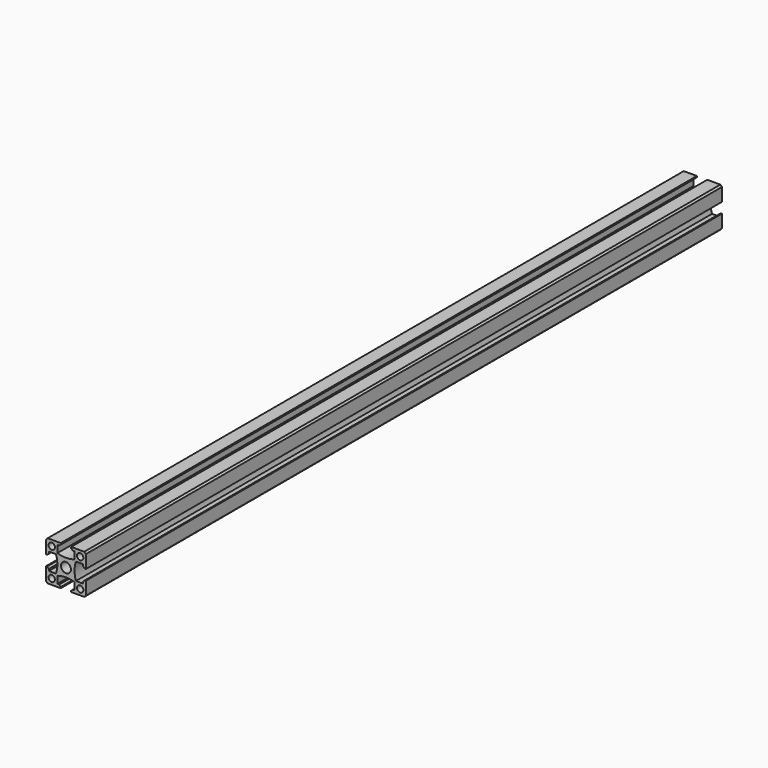
from build123d import *

# Parameters (mm, degrees)
F1_DEPTH = 500
F2_SIZE  = 1
F3_SIZE  = 1
F4_SIZE  = 1
F5_D     = 4
F6_D     = 4
F7_D     = 4
F8_D     = 4
F9_D     = 6.25


with BuildPart() as f1:
    # F0 (on Front) → F1 (new body)
    with BuildSketch(Plane.XZ):
        with BuildLine():
            Line((12.5, -12.5), (12.5, -3.25))
            Line((12.5, -3.25), (10.8, -3.25))
            Line((10.8, -3.25), (10.8, -5.4))
            Line((10.8, -5.4), (6.25, -5.4))
            ThreePointArc((6.25, -5.4), (5.4, 0), (6.25, 5.4))
            Line((6.25, 5.4), (10.8, 5.4))
            Line((10.8, 5.4), (10.8, 3.25))
            Line((10.8, 3.25), (12.5, 3.25))
            Line((12.5, 3.25), (12.5, 12.5))
            Line((12.5, 12.5), (3.25, 12.5))
            Line((3.25, 12.5), (3.25, 10.8))
            Line((3.25, 10.8), (5.4, 10.8))
            Line((5.4, 10.8), (5.4, 6.25))
            ThreePointArc((5.4, 6.25), (0, 5.4), (-5.4, 6.25))
            Line((-5.4, 6.25), (-5.4, 10.8))
            Line((-5.4, 10.8), (-3.25, 10.8))
            Line((-3.25, 10.8), (-3.25, 12.5))
            Line((-3.25, 12.5), (-12.5, 12.5))
            Line((-12.5, 12.5), (-12.5, 3.25))
            Line((-12.5, 3.25), (-10.8, 3.25))
            Line((-10.8, 3.25), (-10.8, 5.4))
            Line((-10.8, 5.4), (-6.25, 5.4))
            ThreePointArc((-6.25, 5.4), (-5.4, 0), (-6.25, -5.4))
            Line((-6.25, -5.4), (-10.8, -5.4))
            Line((-10.8, -5.4), (-10.8, -3.25))
            Line((-10.8, -3.25), (-12.5, -3.25))
            Line((-12.5, -3.25), (-12.5, -12.5))
            Line((-12.5, -12.5), (-3.25, -12.5))
            Line((-3.25, -12.5), (-3.25, -10.8))
            Line((-3.25, -10.8), (-5.4, -10.8))
            Line((-5.4, -10.8), (-5.4, -6.25))
            ThreePointArc((-5.4, -6.25), (0, -5.4), (5.4, -6.25))
            Line((5.4, -6.25), (5.4, -10.8))
            Line((5.4, -10.8), (3.25, -10.8))
            Line((3.25, -10.8), (3.25, -12.5))
            Line((3.25, -12.5), (12.5, -12.5))
        make_face()
    extrude(amount=F1_DEPTH)

    # F2
    f2_edges = [f1.edges().sort_by_distance(p)[0] for p in [
        (-12.5, -250, 12.5),
    ]]
    chamfer(f2_edges, length=F2_SIZE)

    # F3
    f3_edges = [f1.edges().sort_by_distance(p)[0] for p in [
        (12.5, -250, 12.5),
        (12.5, -250, -12.5),
        (-12.5, -250, -12.5),
    ]]
    chamfer(f3_edges, length=F3_SIZE)

    # F4
    f4_edges = [f1.edges().sort_by_distance(p)[0] for p in [
        (3.25, -250, 10.8),
        (10.8, -250, 3.25),
        (10.8, -250, -3.25),
        (3.25, -250, -10.8),
        (-3.25, -250, -10.8),
        (-10.8, -250, -3.25),
        (-3.25, -250, 10.8),
        (-10.8, -250, 3.25),
    ]]
    chamfer(f4_edges, length=F4_SIZE)

    # F5 (through all)
    with Locations(Plane(origin=(0, 0, 0), x_dir=(1, 0, 0), z_dir=(0, 1, 0))):
        with Locations((8.95, -8.95)):
            Hole(F5_D / 2)

    # F6 (through all)
    with Locations(Plane(origin=(0, 0, 0), x_dir=(1, 0, 0), z_dir=(0, 1, 0))):
        with Locations((8.95, 8.95)):
            Hole(F6_D / 2)

    # F7 (through all)
    with Locations(Plane(origin=(0, 0, 0), x_dir=(1, 0, 0), z_dir=(0, 1, 0))):
        with Locations((-8.95, -8.95)):
            Hole(F7_D / 2)

    # F8 (through all)
    with Locations(Plane(origin=(0, 0, 0), x_dir=(1, 0, 0), z_dir=(0, 1, 0))):
        with Locations((-8.95, 8.95)):
            Hole(F8_D / 2)

    # F9 (through all)
    with Locations(Plane(origin=(0, 0, 0), x_dir=(1, 0, 0), z_dir=(0, 1, 0))):
        with Locations((0, 0)):
            Hole(F9_D / 2)


solid = f1.part
